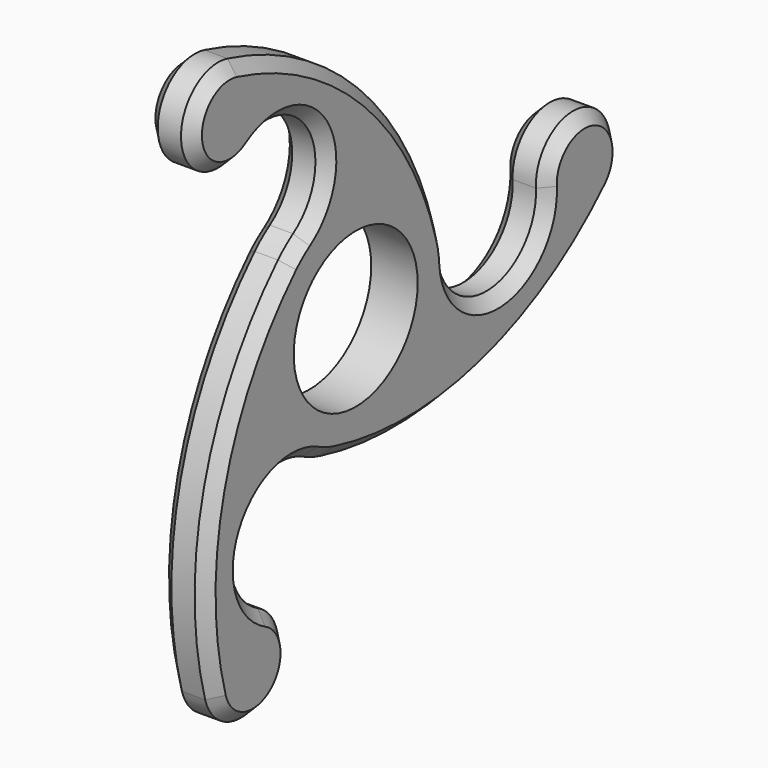
from build123d import *

# Parameters (mm, degrees)
F0_R     = 12.7
F1_DEPTH = 7.62
F2_SIZE  = 1.905


with BuildPart() as f1:
    # F0 (on Right) → F1 (new body)
    with BuildSketch(Plane.YZ):
        with BuildLine():
            ThreePointArc((-4.818668, -18.430489), (11.642742, -15.078099), (19.05, 0))
            ThreePointArc((19.05, 0), (19.042134, 0.547394), (19.018542, 1.094337))
            ThreePointArc((19.018542, 1.094337), (18.798495, 3.085302), (18.370606, 5.042156))
            ThreePointArc((18.370606, 5.042156), (6.727297, 17.822625), (-10.456994, 15.923372))
            ThreePointArc((-10.456994, 15.923372), (-12.071198, 14.737323), (-13.551938, 13.388334))
            ThreePointArc((-13.551938, 13.388334), (-18.798495, -3.085302), (-8.561547, -17.017709))
            ThreePointArc((-8.561547, -17.017709), (-6.727297, -17.822625), (-4.818668, -18.430489))
        make_face()
        Circle(F0_R, mode=Mode.SUBTRACT)
        with BuildLine():
            ThreePointArc((19.018542, 1.094337), (19.042134, 0.547394), (19.05, 0))
            ThreePointArc((19.05, 0), (11.642742, -15.078099), (-4.818668, -18.430489))
            ThreePointArc((-4.818668, -18.430489), (25.888789, -18.218752), (52.350766, -2.638108))
            ThreePointArc((52.350766, -2.638108), (44.233214, -4.434102), (39.304986, 2.26163))
            ThreePointArc((39.304986, 2.26163), (29.74541, -8.465239), (19.018542, 1.094337))
        make_face()
        with BuildLine():
            ThreePointArc((-10.456994, 15.923372), (6.727297, 17.822625), (18.370606, 5.042156))
            ThreePointArc((18.370606, 5.042156), (2.833508, 31.529725), (-23.890715, 46.656147))
            ThreePointArc((-23.890715, 46.656147), (-19.770348, 43.944661), (-18.173919, 39.27765))
            ThreePointArc((-18.173919, 39.27765), (-19.088052, 35.658847), (-21.611122, 32.908302))
            ThreePointArc((-21.611122, 32.908302), (-7.541593, 29.9929), (-10.456994, 15.923372))
        make_face()
        with BuildLine():
            ThreePointArc((54.532403, 2.699364), (46.693445, 10.316218), (39.304986, 2.26163))
            ThreePointArc((39.304986, 2.26163), (44.233214, -4.434102), (52.350766, -2.638108))
            ThreePointArc((52.350766, -2.638108), (53.965938, -0.183696), (54.532403, 2.699364))
        make_face()
        with BuildLine():
            ThreePointArc((-17.693864, -35.169931), (-22.203817, -21.527661), (-8.561547, -17.017709))
            ThreePointArc((-8.561547, -17.017709), (-18.798495, -3.085302), (-13.551938, 13.388334))
            ThreePointArc((-13.551938, 13.388334), (-28.722296, -13.310972), (-28.460051, -44.018039))
            ThreePointArc((-28.460051, -44.018039), (-25.956652, -36.090035), (-17.693864, -35.169931))
        make_face()
        with BuildLine():
            ThreePointArc((-18.173919, 39.27765), (-19.770348, 43.944661), (-23.890715, 46.656147))
            ThreePointArc((-23.890715, 46.656147), (-33.311277, 38.031163), (-21.611122, 32.908302))
            ThreePointArc((-21.611122, 32.908302), (-19.088052, 35.658847), (-18.173919, 39.27765))
        make_face()
        with BuildLine():
            ThreePointArc((-13.498483, -41.977015), (-14.631574, -37.978965), (-17.693864, -35.169931))
            ThreePointArc((-17.693864, -35.169931), (-25.956652, -36.090035), (-28.460051, -44.018039))
            ThreePointArc((-28.460051, -44.018039), (-20.088519, -49.527086), (-13.498483, -41.977015))
        make_face()
    extrude(amount=F1_DEPTH)

    # F2
    f2_edges = [f1.edges().sort_by_distance(p)[0] for p in [
        (0, 25.888789, -18.218752),
        (0, 29.74541, -8.465239),
        (7.62, 25.888789, -18.218752),
    ]]
    chamfer(f2_edges, length=F2_SIZE)


solid = f1.part
